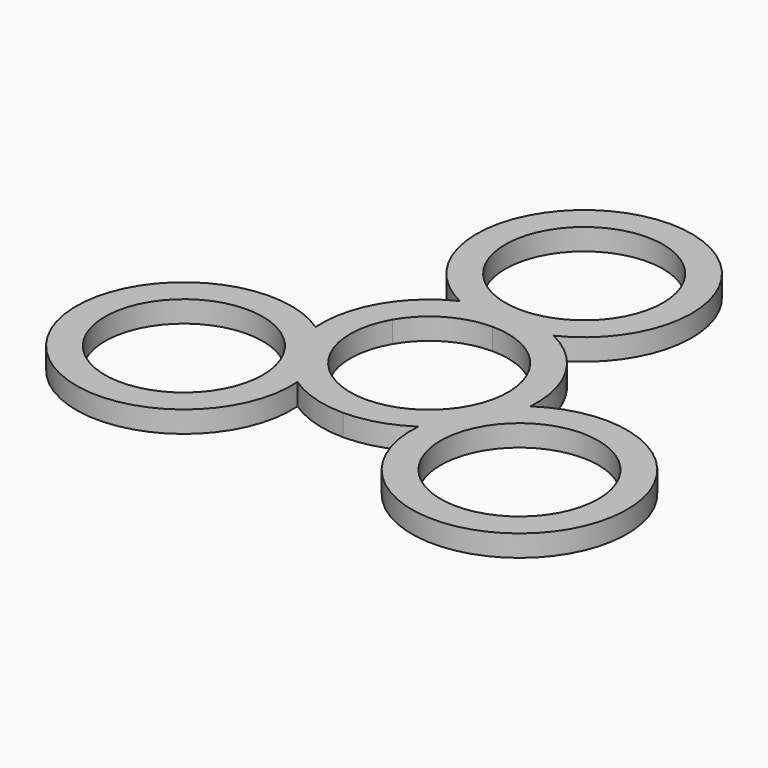
from build123d import *

# Parameters (mm, degrees)
F0_R     = 11
F1_DEPTH = 3


with BuildPart() as f1:
    # F0 (on Top) → F1 (new body)
    with BuildSketch(Plane.XY):
        with BuildLine():
            ThreePointArc((0, -11), (9.526279, -5.5), (9.526279, 5.5))
            ThreePointArc((9.526279, 5.5), (5.5, 9.526279), (0, 11))
            ThreePointArc((0, 11), (-5.5, 9.526279), (-9.526279, 5.5))
            ThreePointArc((-9.526279, 5.5), (-9.526279, -5.5), (0, -11))
        make_face()
        with BuildLine():
            ThreePointArc((11, 27), (-7.778175, 34.778175), (0, 16))
            ThreePointArc((0, 16), (7.778175, 19.221825), (11, 27))
        make_face()
        with BuildLine():
            ThreePointArc((14.960517, -1.087624), (14.620192, 3.354102), (12.990381, 7.5))
            ThreePointArc((12.990381, 7.5), (10.214833, 10.984406), (6.538348, 13.5))
            ThreePointArc((6.538348, 13.5), (0, 42), (-6.538348, 13.5))
            ThreePointArc((-6.538348, 13.5), (-10.214833, 10.984406), (-12.990381, 7.5))
            ThreePointArc((-12.990381, 7.5), (-14.620192, 3.354102), (-14.960517, -1.087624))
            ThreePointArc((-14.960517, -1.087624), (-36.373067, -21), (-8.422169, -12.412376))
            ThreePointArc((-8.422169, -12.412376), (-4.405358, -14.338508), (0, -15))
            ThreePointArc((0, -15), (4.405358, -14.338508), (8.422169, -12.412376))
            ThreePointArc((8.422169, -12.412376), (36.373067, -21), (14.960517, -1.087624))
        make_face()
        with Locations((-23.382686, -13.5)):
            Circle(F0_R, mode=Mode.SUBTRACT)
        with Locations((23.382686, -13.5)):
            Circle(F0_R, mode=Mode.SUBTRACT)
        with BuildLine():
            ThreePointArc((0, 11), (5.5, 9.526279), (9.526279, 5.5))
            ThreePointArc((9.526279, 5.5), (9.526279, -5.5), (0, -11))
            ThreePointArc((0, -11), (-9.526279, -5.5), (-9.526279, 5.5))
            ThreePointArc((-9.526279, 5.5), (-5.5, 9.526279), (0, 11))
        make_face(mode=Mode.SUBTRACT)
        with BuildLine():
            ThreePointArc((11, 27), (7.778175, 19.221825), (0, 16))
            ThreePointArc((0, 16), (-7.778175, 34.778175), (11, 27))
        make_face(mode=Mode.SUBTRACT)
    extrude(amount=F1_DEPTH)


solid = f1.part
